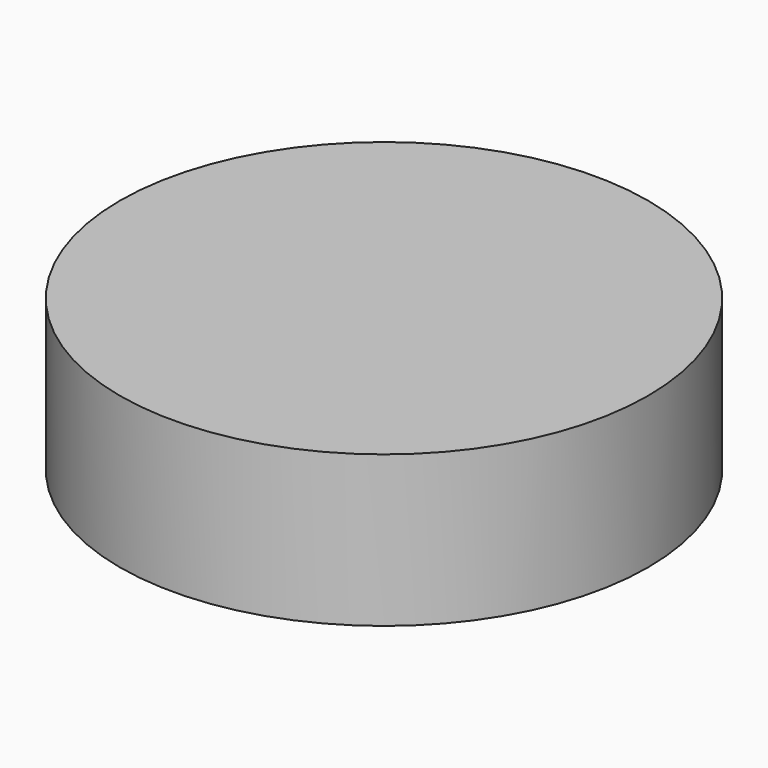
from build123d import *

# Parameters (mm, degrees)
SKETCH_R  = 47.206045
PAD_DEPTH = 27


with BuildPart() as part:
    # Sketch → Pad (new body)
    with BuildSketch(Plane.XY):
        Circle(SKETCH_R)
    extrude(amount=PAD_DEPTH)


solid = part.part
